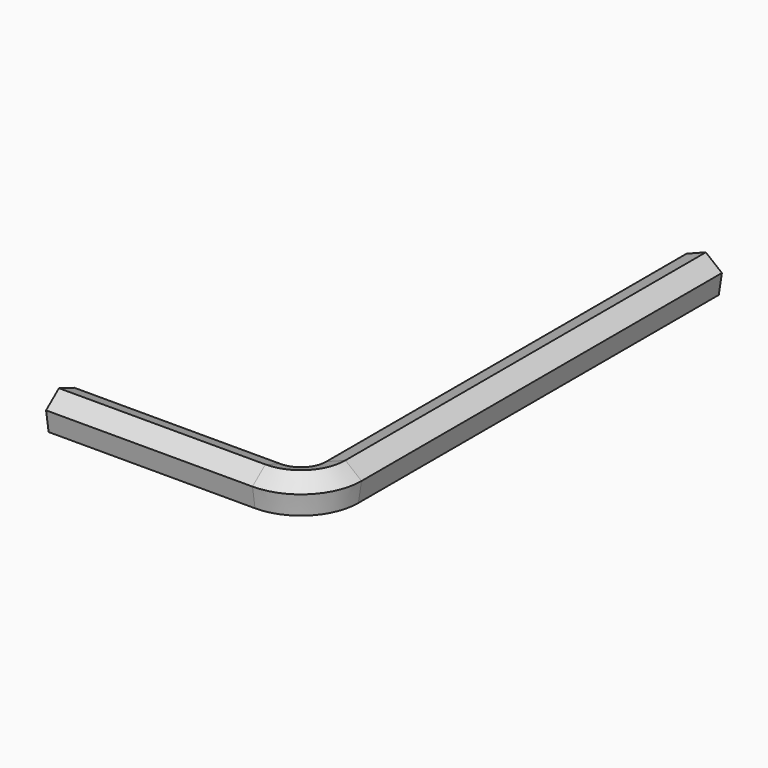
from build123d import *


with BuildPart() as f2:
    # F2: sweep along a path in F1
    with BuildLine(Plane.XY) as f2_path:
        Line((0, 0), (0, -54.523539))
        ThreePointArc((0, -54.523539), (-1.464466, -58.059073), (-5, -59.523539))
        Line((-5, -59.523539), (-29.982492, -59.523539))
    # F0 (on Front) → F2 (sweep)
    with BuildSketch(Plane.XZ):
        Polygon((-2.33192, -0.901193), (-0.385504, -2.470099), (1.946416, -1.568905), (2.33192, 0.901193), (0.385504, 2.470099), (-1.946416, 1.568905), align=None)
    sweep(path=f2_path.line)


solid = f2.part
